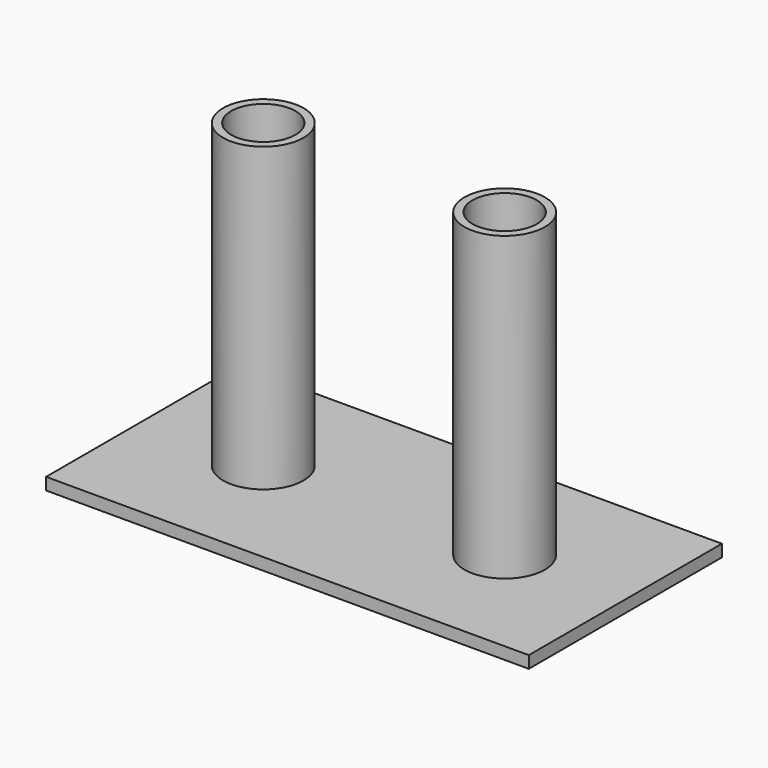
from build123d import *

# Parameters (mm, degrees)
F0_W     = 120
F0_H     = 60
F0_R     = 10
F1_DEPTH = 3
F2_DEPTH = 75
F3_R     = 8
F4_DEPTH = 10


with BuildPart() as f1:
    # F0 (on Top) → F1 (new body)
    with BuildSketch(Plane.XY):
        with Locations((-30, 0)):
            Rectangle(F0_W, F0_H)
        with Locations((-60, 0)):
            Circle(F0_R, mode=Mode.SUBTRACT)
        Circle(F0_R, mode=Mode.SUBTRACT)
        with Locations((-60, 0)):
            Circle(F0_R)
        Circle(F0_R)
    extrude(amount=-F1_DEPTH)

    # F0 (on Top) → F2 (join)
    with BuildSketch(Plane.XY):
        with Locations((-60, 0)):
            Circle(F0_R)
        Circle(F0_R)
    extrude(amount=F2_DEPTH)

    # F3 (on face) → F4 (cut)
    with BuildSketch(Plane.XY.offset(75)):
        with Locations((-60, 0)):
            Circle(F3_R)
        Circle(F3_R)
    extrude(amount=-F4_DEPTH, mode=Mode.SUBTRACT)


solid = f1.part
